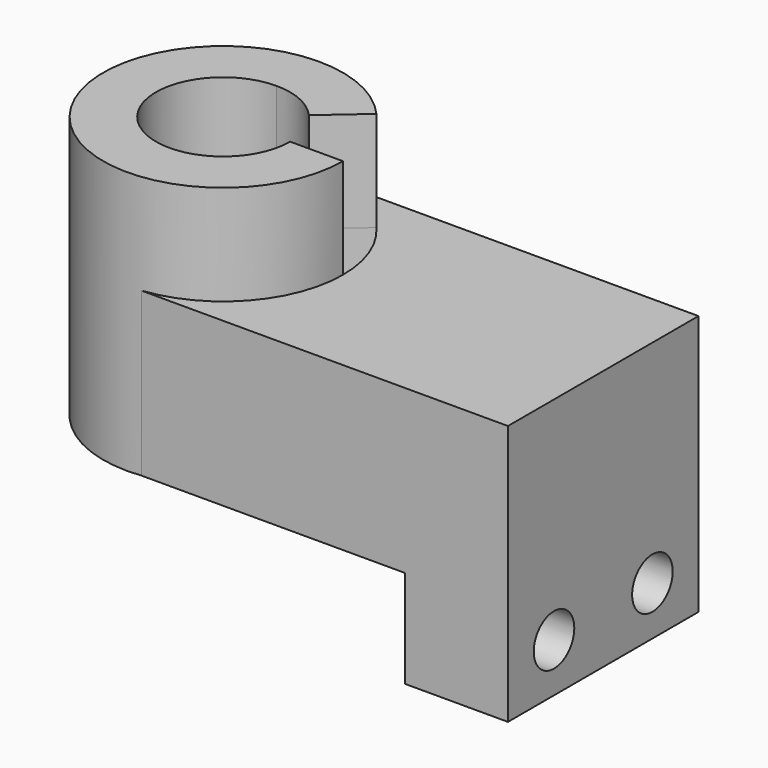
from build123d import *

# Parameters (mm, degrees)
F1_DEPTH = 78.74
F2_DEPTH = 25.4
F3_DEPTH = 168.148
F4_W     = 152.277097106
F4_H     = 166.5787487769
F4_R     = 16.2034810418
F5_DEPTH = 65.786


with BuildPart() as f1:
    # F0 (on Top) → F1 (new body)
    with BuildSketch(Plane.XY):
        with BuildLine():
            Line((-76.6547471285, 42.8859197003), (-76.6547471285, 76.138548553))
            Line((-76.6547471285, 76.138548553), (-67.7737741201, 76.138548553))
            ThreePointArc((-67.7737741201, 76.138548553), (-153.309494257, 0), (-67.7737741201, -76.138548553))
            Line((-67.7737741201, -76.138548553), (-76.6547471285, -76.138548553))
            Line((-76.6547471285, -76.138548553), (-76.6547471285, -42.8859197003))
            ThreePointArc((-76.6547471285, -42.8859197003), (-119.5406668288, 0), (-76.6547471285, 42.8859197003))
        make_face()
        with BuildLine():
            Line((-67.7737741201, 76.138548553), (-76.6547471285, 76.138548553))
            Line((-76.6547471285, 76.138548553), (-76.6547471285, 42.8859197003))
            ThreePointArc((-76.6547471285, 42.8859197003), (-58.9040631626, 39.0399196629), (-44.3371342228, 28.1917364598))
            Line((-44.3371342228, 28.1917364598), (-18.8899035063, 50.3902083608))
            ThreePointArc((-18.8899035063, 50.3902083608), (-40.9313587918, 67.8217500739), (-67.7737741201, 76.138548553))
        make_face()
        with BuildLine():
            Line((100.6577461958, 76.138548553), (-67.7737741201, 76.138548553))
            ThreePointArc((-67.7737741201, 76.138548553), (-40.9313587918, 67.8217500739), (-18.8899035063, 50.3902083608))
            ThreePointArc((-18.8899035063, 50.3902083608), (-4.8776625607, 26.9072553093), (0, 0))
            ThreePointArc((0, 0), (-19.3977868636, -50.9665651046), (-67.7737741201, -76.138548553))
            Line((-67.7737741201, -76.138548553), (100.6577461958, -76.138548553))
            Line((100.6577461958, -76.138548553), (100.6577461958, 76.138548553))
        make_face()
        with BuildLine():
            Line((-76.6547471285, -76.138548553), (-67.7737741201, -76.138548553))
            ThreePointArc((-67.7737741201, -76.138548553), (-19.3977868636, -50.9665651046), (0, 0))
            Line((0, 0), (-33.7688274282, 0))
            ThreePointArc((-33.7688274282, 0), (-46.329822491, -30.3249246375), (-76.6547471285, -42.8859197003))
            Line((-76.6547471285, -42.8859197003), (-76.6547471285, -76.138548553))
        make_face()
    extrude(amount=F1_DEPTH)

    # F0 (on Top) + F1_face (on face) + F1_face1 (on face) → F2 (join)
    with BuildSketch(Plane.XY):
        with BuildLine():
            Line((-76.6547471285, 42.8859197003), (-76.6547471285, 76.138548553))
            Line((-76.6547471285, 76.138548553), (-67.7737741201, 76.138548553))
            ThreePointArc((-67.7737741201, 76.138548553), (-153.309494257, 0), (-67.7737741201, -76.138548553))
            Line((-67.7737741201, -76.138548553), (-76.6547471285, -76.138548553))
            Line((-76.6547471285, -76.138548553), (-76.6547471285, -42.8859197003))
            ThreePointArc((-76.6547471285, -42.8859197003), (-119.5406668288, 0), (-76.6547471285, 42.8859197003))
        make_face()
    with BuildSketch(Plane(origin=(-7.2978192901, -1.0520080629, 78.74), x_dir=(1, 0, 0), z_dir=(0, 0, 1))):
        with BuildLine():
            ThreePointArc((-60.47595483, 77.1905566159), (-146.0116749669, 1.0520080629), (-60.47595483, -75.08654049))
            Line((-60.47595483, -75.08654049), (107.9555654859, -75.08654049))
            Line((107.9555654859, -75.08654049), (107.9555654859, 77.1905566159))
            Line((107.9555654859, 77.1905566159), (-60.47595483, 77.1905566159))
        make_face()
        with BuildLine():
            ThreePointArc((-11.5920842162, 51.4422164237), (2.4201567294, 27.9592633723), (7.2978192901, 1.0520080629))
            Line((7.2978192901, 1.0520080629), (-26.4710081381, 1.0520080629))
            ThreePointArc((-26.4710081381, 1.0520080629), (-109.5139487719, -14.0017548647), (-37.0393149327, 29.2437445228))
            Line((-37.0393149327, 29.2437445228), (-11.5920842162, 51.4422164237))
        make_face(mode=Mode.SUBTRACT)
    with BuildSketch(Plane(origin=(-7.2978192901, -1.0520080629, 0), x_dir=(1, 0, 0), z_dir=(0, 0, -1))):
        with BuildLine():
            ThreePointArc((-60.47595483, 75.08654049), (-146.0116749669, -1.0520080629), (-60.47595483, -77.1905566159))
            Line((-60.47595483, -77.1905566159), (107.9555654859, -77.1905566159))
            Line((107.9555654859, -77.1905566159), (107.9555654859, 75.08654049))
            Line((107.9555654859, 75.08654049), (-60.47595483, 75.08654049))
        make_face()
        with BuildLine():
            ThreePointArc((7.2978192901, -1.0520080629), (2.4201567294, -27.9592633723), (-11.5920842162, -51.4422164237))
            Line((-11.5920842162, -51.4422164237), (-37.0393149327, -29.2437445228))
            ThreePointArc((-37.0393149327, -29.2437445228), (-109.5139487719, 14.0017548647), (-26.4710081381, -1.0520080629))
            Line((-26.4710081381, -1.0520080629), (7.2978192901, -1.0520080629))
        make_face(mode=Mode.SUBTRACT)
    extrude(amount=F2_DEPTH, dir=(0, 0, 1))

    # F0 (on Top) → F3 (join)
    with BuildSketch(Plane.XY):
        with BuildLine():
            Line((-76.6547471285, -76.138548553), (-67.7737741201, -76.138548553))
            ThreePointArc((-67.7737741201, -76.138548553), (-19.3977868636, -50.9665651046), (0, 0))
            Line((0, 0), (-33.7688274282, 0))
            ThreePointArc((-33.7688274282, 0), (-46.329822491, -30.3249246375), (-76.6547471285, -42.8859197003))
            Line((-76.6547471285, -42.8859197003), (-76.6547471285, -76.138548553))
        make_face()
        with BuildLine():
            Line((-76.6547471285, 42.8859197003), (-76.6547471285, 76.138548553))
            Line((-76.6547471285, 76.138548553), (-67.7737741201, 76.138548553))
            ThreePointArc((-67.7737741201, 76.138548553), (-153.309494257, 0), (-67.7737741201, -76.138548553))
            Line((-67.7737741201, -76.138548553), (-76.6547471285, -76.138548553))
            Line((-76.6547471285, -76.138548553), (-76.6547471285, -42.8859197003))
            ThreePointArc((-76.6547471285, -42.8859197003), (-119.5406668288, 0), (-76.6547471285, 42.8859197003))
        make_face()
        with BuildLine():
            Line((-67.7737741201, 76.138548553), (-76.6547471285, 76.138548553))
            Line((-76.6547471285, 76.138548553), (-76.6547471285, 42.8859197003))
            ThreePointArc((-76.6547471285, 42.8859197003), (-58.9040631626, 39.0399196629), (-44.3371342228, 28.1917364598))
            Line((-44.3371342228, 28.1917364598), (-18.8899035063, 50.3902083608))
            ThreePointArc((-18.8899035063, 50.3902083608), (-40.9313587918, 67.8217500739), (-67.7737741201, 76.138548553))
        make_face()
    extrude(amount=F3_DEPTH)

    # F4 (on face) → F5 (join)
    with BuildSketch(Plane.YZ.offset(100.6577461958)):
        with Locations((0, 20.8506256115)):
            Rectangle(F4_W, F4_H)
        with Locations((-39.326235652, -31.2090925872)):
            Circle(F4_R, mode=Mode.SUBTRACT)
        with Locations((39.326235652, -31.2090925872)):
            Circle(F4_R, mode=Mode.SUBTRACT)
    extrude(amount=F5_DEPTH)


solid = f1.part
